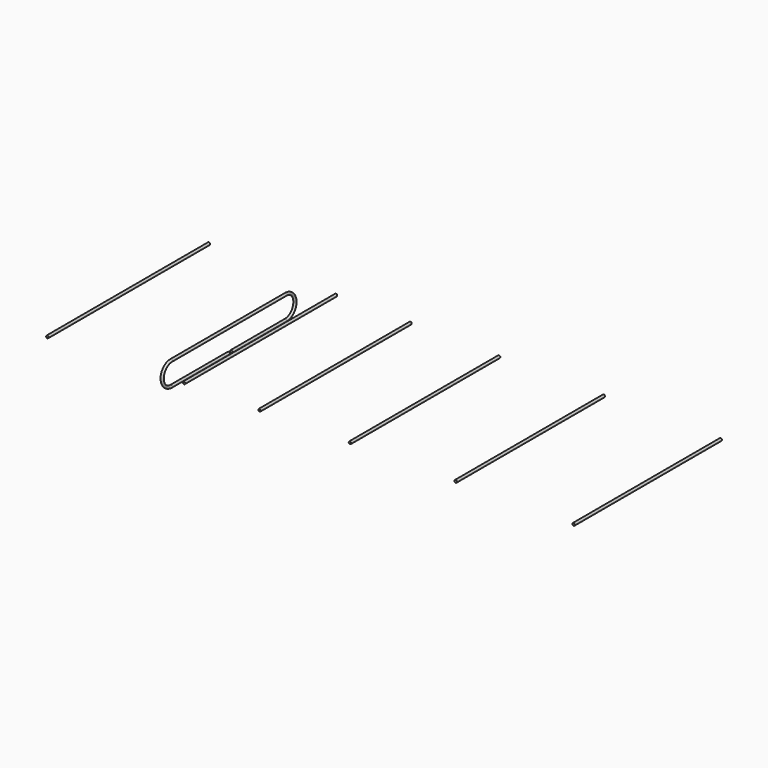
from build123d import *

# Parameters (mm, degrees)
SKETCH_R     = 1.05
PAD_DEPTH    = 83.5
SKETCH001_R  = 1.05
PAD001_DEPTH = 78.5
SKETCH002_R  = 1.05
PAD002_DEPTH = 78
SKETCH003_R  = 1.05
PAD003_DEPTH = 77
SKETCH004_R  = 1.05
PAD004_DEPTH = 76.5
SKETCH005_R  = 1.05
PAD005_DEPTH = 76
SKETCH007_R  = 1.05


with BuildPart() as reflector:
    # Sketch → Pad (new body, symmetric)
    with BuildSketch(Plane.XZ):
        Circle(SKETCH_R)
    extrude(amount=PAD_DEPTH, both=True)


with BuildPart() as primer_director:
    # Sketch001 → Pad001 (new body, symmetric)
    with BuildSketch(Plane.XZ):
        with Locations((109, 0)):
            Circle(SKETCH001_R)
    extrude(amount=PAD001_DEPTH, both=True)


with BuildPart() as obj1:
    # Sketch002 → Pad002 (new body, symmetric)
    with BuildSketch(Plane.XZ):
        with Locations((171, 0)):
            Circle(SKETCH002_R)
    extrude(amount=PAD002_DEPTH, both=True)


with BuildPart() as obj2:
    # Sketch003 → Pad003 (new body, symmetric)
    with BuildSketch(Plane.XZ):
        with Locations((245, 0)):
            Circle(SKETCH003_R)
    extrude(amount=PAD003_DEPTH, both=True)


with BuildPart() as obj3:
    # Sketch004 → Pad004 (new body, symmetric)
    with BuildSketch(Plane.XZ):
        with Locations((332, 0)):
            Circle(SKETCH004_R)
    extrude(amount=PAD004_DEPTH, both=True)


with BuildPart() as obj4:
    # Sketch005 → Pad005 (new body, symmetric)
    with BuildSketch(Plane.XZ):
        with Locations((429, 0)):
            Circle(SKETCH005_R)
    extrude(amount=PAD005_DEPTH, both=True)


with BuildPart() as obj5:
    # AdditivePipe: sweep along a path in Sketch006
    with BuildLine(Plane.YZ.offset(83)) as additivepipe_path:
        Line((2.9, -18.8), (59.2, -18.8))
        ThreePointArc((59.2, -18.8), (68.6, -9.4), (59.2, 0))
        Line((59.2, 0), (-59.2, 0))
        ThreePointArc((-59.2, 0), (-68.6, -9.4), (-59.2, -18.8))
        Line((-59.2, -18.8), (0, -18.8))
    # Sketch007 → AdditivePipe (sweep)
    with BuildSketch(Plane(origin=(15.745148, 2.9, -20.31305), x_dir=(1, 0, 0), z_dir=(0, -1, 0))):
        with Locations((67.254852, 1.51305)):
            Circle(SKETCH007_R)
    sweep(path=additivepipe_path.line)


solid = Compound([reflector.part, primer_director.part, obj1.part, obj2.part, obj3.part, obj4.part, obj5.part])
